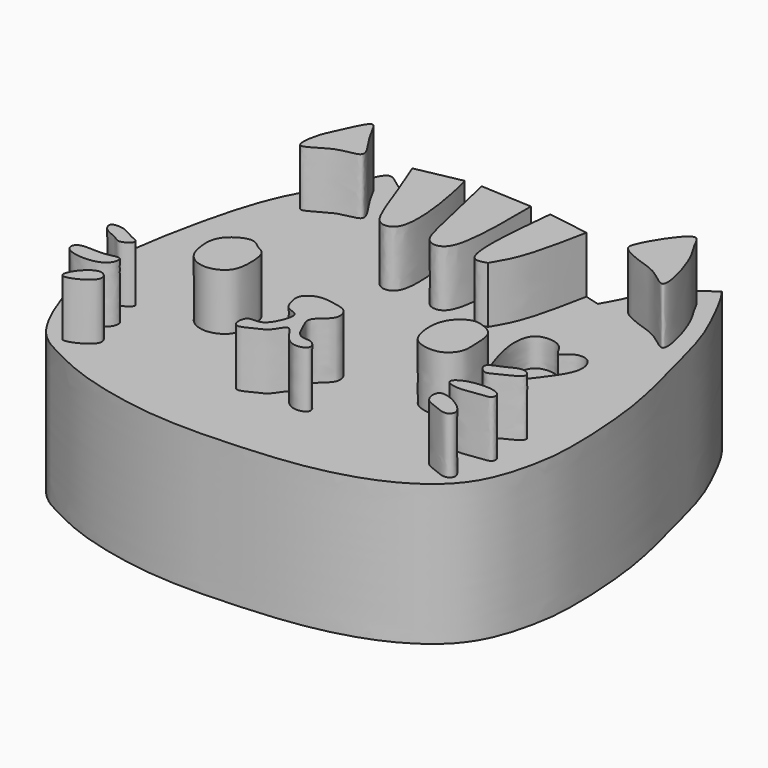
from build123d import *

# Parameters (mm, degrees)
F1_DEPTH = 7
F2_DEPTH = 5
F3_DEPTH = 4


with BuildPart() as f1:
    # F0 (on Top) → F1 (new body)
    with BuildSketch(Plane.XY):
        with BuildLine():
            add(Edge.make_bspline(
                [(8.0185680598, 15.2069385045), (8.0270837211, 15.2093513362), (8.0356028769, 15.211759167), (8.0441257125, 15.2141617317)],
                knots=[0.0685146865, 0.0685146865, 0.0685146865, 0.0685146865, 0.0721487678, 0.0721487678, 0.0721487678, 0.0721487678], degree=3))
            add(Edge.make_bspline(
                [(8.0185680865, 15.206938519), (8.1456651348, 14.8964780665), (8.429736558, 14.2023810689), (8.9521749959, 12.6634816561), (9.3465270126, 11.9853451736), (10.1783854316, 12.1491784225), (9.9146080436, 14.4014965322), (9.7091336489, 15.1905100868), (9.6192044115, 15.5316497966)],
                knots=[0.0003349495, 0.0003349495, 0.0003349495, 0.0003349495, 0.1633550102, 0.3640674906, 0.4933035719, 0.6024792642, 0.8258590143, 1, 1, 1, 1], degree=3))
            add(Edge.make_bspline(
                [(9.6192044115, 15.5316497966), (9.0941781785, 15.4258204416), (8.5691519455, 15.3199910867), (8.0441257125, 15.2141617317)],
                knots=[0, 0, 0, 0, 1.6067580961, 1.6067580961, 1.6067580961, 1.6067580961], degree=3))
        make_face()
    extrude(amount=F1_DEPTH)


with BuildPart() as f1b:
    # F0 (on Top) → F1, piece 2 (new body)
    with BuildSketch(Plane.XY):
        with BuildLine():
            add(Edge.make_bspline(
                [(12.0135450293, 15.4773354012), (11.4058551989, 15.5083874516), (10.7981653684, 15.539439502), (10.1904755379, 15.5704915524)],
                knots=[0, 0, 0, 0, 1.8254480106, 1.8254480106, 1.8254480106, 1.8254480106], degree=3))
            add(Edge.make_bspline(
                [(10.1904755379, 15.5704915524), (10.4004088105, 14.6419910593), (10.739602224, 13.1417619432), (11.0042906658, 11.9921987372), (11.7505266881, 11.9892162517), (12.0305110755, 13.1333382993), (12.0198357957, 14.5850010835), (12.0135450293, 15.4773354012)],
                knots=[0, 0, 0, 0, 0.2764567189, 0.4468822943, 0.5628184795, 0.7319473814, 1, 1, 1, 1], degree=3))
        make_face()
    extrude(amount=F1_DEPTH)


with BuildPart() as f1c:
    # F0 (on Top) → F1, piece 3 (new body)
    with BuildSketch(Plane.XY):
        with BuildLine():
            add(Edge.make_bspline(
                [(13.2046649233, 12.0874056593), (13.3654050394, 12.357390845), (13.7638945915, 13.026708986), (14.0357438807, 14.3921850094), (14.1978986014, 15.2070718791)],
                knots=[0, 0, 0, 0, 0.4031717372, 0.9994998688, 0.9994998688, 0.9994998688, 0.9994998688], degree=3))
            add(Edge.make_bspline(
                [(14.1774315396, 15.212428255), (14.1842459583, 15.2106485915), (14.1910684162, 15.208863057), (14.1978986014, 15.2070718791)],
                knots=[0.9291584242, 0.9291584242, 0.9291584242, 0.9291584242, 0.9319050644, 0.9319050644, 0.9319050644, 0.9319050644], degree=3))
            add(Edge.make_bspline(
                [(12.7762666313, 15.43433708), (13.2433216007, 15.3603674716), (13.7103765702, 15.2863978633), (14.1774315396, 15.212428255)],
                knots=[0.0498826115, 0.0498826115, 0.0498826115, 0.0498826115, 1.4685110431, 1.4685110431, 1.4685110431, 1.4685110431], degree=3))
            add(Edge.make_bspline(
                [(12.7263183354, 15.435376231), (12.743101545, 15.435021538), (12.7597387765, 15.4346813312), (12.7762666313, 15.43433708)],
                knots=[0.6928424518, 0.6928424518, 0.6928424518, 0.6928424518, 0.7021789214, 0.7021789214, 0.7021789214, 0.7021789214], degree=3))
            add(Edge.make_bspline(
                [(13.2046649233, 12.0874056593), (13.0236321243, 12.0296050376), (12.3635492642, 11.8188520699), (12.5733669947, 13.9134452466), (12.7263183368, 15.4353762307)],
                knots=[0, 0, 0, 0, 0.2739631478, 0.9989260465, 0.9989260465, 0.9989260465, 0.9989260465], degree=3))
        make_face()
    extrude(amount=F1_DEPTH)


with BuildPart() as f1d:
    # F0 (on Top) → F1, piece 4 (new body)
    with BuildSketch(Plane.XY):
        with BuildLine():
            add(Edge.make_bspline(
                [(16.6877508163, 16.8714039028), (16.8321946023, 16.898437407), (16.9944896369, 16.4181260911), (17.4293696491, 15.9510221376), (18.0983672064, 13.6543504683), (17.1391822083, 14.6106796235), (16.439423172, 14.7704845192), (15.6637373203, 15.1168524534), (15.5712935246, 15.4785439819), (16.4047532022, 16.8184392346), (16.6877508163, 16.8714039028)],
                knots=[0, 0, 0, 0, 0.0902221164, 0.2157918354, 0.3908607182, 0.5019792459, 0.6276229333, 0.7446620197, 0.8232347378, 1, 1, 1, 1], degree=3))
        make_face()
    extrude(amount=F1_DEPTH)


with BuildPart() as f1e:
    # F0 (on Top) → F1, piece 5 (new body)
    with BuildSketch(Plane.XY):
        with BuildLine():
            add(Edge.make_bspline(
                [(4.7277575359, 14.3535099924), (4.6076096966, 14.4233862951), (4.7107102737, 15.1935851427), (4.9947818182, 15.6697656714), (5.4991583833, 16.9307726505), (5.8008394953, 15.9699680009), (6.7823456312, 14.8409275241), (5.5988270288, 14.9380060571), (4.8710075236, 14.2701978032), (4.7277575359, 14.3535099924)],
                knots=[0, 0, 0, 0, 0.1306062408, 0.2664277851, 0.4148507713, 0.540808476, 0.7063010227, 0.8442806586, 1, 1, 1, 1], degree=3))
        make_face()
    extrude(amount=F1_DEPTH)


with BuildPart() as f1f:
    # F0 (on Top) → F1, piece 6 (new body)
    with BuildSketch(Plane.XY):
        with BuildLine():
            add(Edge.make_bspline(
                [(7.2456514463, 9.0659335256), (7.4083770118, 9.052710822), (7.6016993085, 8.8225579788), (8.0053893171, 8.7062443778), (8.0707148229, 7.911443525), (7.9773394335, 7.2453650576), (7.2446388763, 6.903214013), (6.530804608, 7.1967469596), (6.327948088, 7.8915127618), (6.3290870666, 8.7054024992), (7.0155225819, 9.0846332654), (7.2456514463, 9.0659335256)],
                knots=[0, 0, 0, 0, 0.0912763777, 0.1747098312, 0.2929013621, 0.4049835407, 0.5207198685, 0.6350583557, 0.7493968793, 0.8709156175, 1, 1, 1, 1], degree=3))
        make_face()
    extrude(amount=F1_DEPTH)


with BuildPart() as f1g:
    # F0 (on Top) → F1, piece 7 (new body)
    with BuildSketch(Plane.XY):
        with BuildLine():
            add(Edge.make_bspline(
                [(4.6438276768, 4.6596205793), (4.8054343797, 4.8528171816), (5.1812309038, 5.0961056322), (5.5834937542, 4.5986911988), (4.8101645221, 4.1145346538), (4.3025269831, 4.0680800337), (4.4921866356, 4.478337666), (4.6438276768, 4.6596205793)],
                knots=[0, 0, 0, 0, 0.218419577, 0.3851385609, 0.6342730381, 0.7950495155, 1, 1, 1, 1], degree=3))
        make_face()
    extrude(amount=F1_DEPTH)


with BuildPart() as f1h:
    # F0 (on Top) → F1, piece 8 (new body)
    with BuildSketch(Plane.XY):
        with BuildLine():
            add(Edge.make_bspline(
                [(4.5598978177, 5.8766021393), (4.2475953844, 5.8407548799), (3.6595089247, 5.9554278375), (3.4895647765, 5.5973950159), (3.8307424713, 5.272211424), (5.0326665821, 5.2924961719), (5.1720340421, 6.0788552628), (4.7962512049, 5.9037316788), (4.5598978177, 5.8766021393)],
                knots=[0, 0, 0, 0, 0.2098147093, 0.3203115503, 0.4592540559, 0.6933549643, 0.8412102758, 1, 1, 1, 1], degree=3))
        make_face()
    extrude(amount=F1_DEPTH)


with BuildPart() as f1i:
    # F0 (on Top) → F1, piece 9 (new body)
    with BuildSketch(Plane.XY):
        with BuildLine():
            add(Edge.make_bspline(
                [(4.4340034947, 6.715899799), (4.3158767479, 6.7008735493), (4.1561829342, 6.8837695277), (3.7025692471, 6.9755289332), (3.4705501332, 7.4261297094), (4.0811667078, 7.438035267), (4.4576309462, 7.1257142214), (4.9311695823, 7.0022408333), (4.5693639563, 6.7331182542), (4.4340034947, 6.715899799)],
                knots=[0, 0, 0, 0, 0.1280964469, 0.2833023612, 0.4113988755, 0.5585489658, 0.7285684887, 0.8532153415, 1, 1, 1, 1], degree=3))
        make_face()
    extrude(amount=F1_DEPTH)


with BuildPart() as f1j:
    # F0 (on Top) → F1, piece 10 (new body)
    with BuildSketch(Plane.XY):
        with BuildLine():
            add(Edge.make_bspline(
                [(10.0572984666, 5.2890935913), (10.1505153465, 5.3898006634), (10.540712661, 5.2695208115), (10.8776061936, 5.757335397), (11.0724806072, 6.422093783), (10.5370383516, 6.4392997433), (10.3795856743, 6.8836177145), (10.3130118876, 7.2940919974), (10.8151864248, 7.6448640844), (11.43424697, 7.5117951128), (11.9109898377, 7.4249950808), (12.0906507585, 6.8113978793), (11.3282225461, 6.4248311873), (11.5720487726, 5.9219160354), (11.8364034051, 5.2999010199), (12.3351525628, 5.4299562427), (12.6598904369, 4.9594242997), (11.7708498254, 4.7310123961), (11.3321017578, 5.892738082), (11.0391057297, 5.1454254919), (10.6000895474, 4.9931572793), (9.9574535039, 4.620768347), (9.9604857624, 5.1845017621), (10.0572984666, 5.2890935913)],
                knots=[0, 0, 0, 0, 0.0438128644, 0.0941354218, 0.1438924757, 0.184923826, 0.2289457947, 0.2701047459, 0.3180382917, 0.3712332243, 0.4162586482, 0.4621330701, 0.5174877791, 0.563362201, 0.6154647322, 0.6592775919, 0.6982333725, 0.7498275612, 0.8119736199, 0.8567050491, 0.9062449676, 0.9544970622, 1, 1, 1, 1], degree=3))
        make_face()
    extrude(amount=F1_DEPTH)


with BuildPart() as f1k:
    # F0 (on Top) → F1, piece 11 (new body)
    with BuildSketch(Plane.XY):
        with BuildLine():
            add(Edge.make_bspline(
                [(15.009155497, 9.1078989208), (15.161222327, 9.1498211866), (15.4287553903, 9.0806394748), (15.9623584456, 8.8361091045), (15.9677701475, 8.0035551039), (16.0035277893, 7.5058187296), (15.555138259, 6.9736681237), (14.7080355433, 7.0744532697), (14.3495939528, 7.4815564282), (14.2489212479, 8.6211839235), (14.7994899502, 9.0500976581), (15.009155497, 9.1078989208)],
                knots=[0, 0, 0, 0, 0.0899248624, 0.1890299314, 0.3102041397, 0.4086372555, 0.5153107573, 0.6357506188, 0.7341837157, 0.8760140825, 1, 1, 1, 1], degree=3))
        make_face()
    extrude(amount=F1_DEPTH)


with BuildPart() as f1l:
    # F0 (on Top) → F1, piece 12 (new body)
    with BuildSketch(Plane.XY):
        with BuildLine():
            add(Edge.make_bspline(
                [(17.4011550844, 7.4712680653), (17.6145494812, 7.5657214121), (17.9400655622, 7.8004526388), (18.4571554394, 7.4206967811), (17.5757331331, 7.0626416796), (17.2105825645, 6.8049015122), (16.8248449528, 7.2928178359), (17.2121514202, 7.3876106267), (17.4011550844, 7.4712680653)],
                knots=[0, 0, 0, 0, 0.1883073467, 0.3247975515, 0.5321647956, 0.6899715846, 0.8332159652, 1, 1, 1, 1], degree=3))
        make_face()
    extrude(amount=F1_DEPTH)


with BuildPart() as f1m:
    # F0 (on Top) → F1, piece 13 (new body)
    with BuildSketch(Plane.XY):
        with BuildLine():
            add(Edge.make_bspline(
                [(17.191329971, 6.1703561805), (17.5527639037, 6.2837715976), (18.3652928938, 6.2889547547), (18.3757223949, 5.8031639315), (17.9514551508, 5.816343017), (17.2397131522, 5.6331752727), (16.6479336249, 5.857486575), (16.9520712262, 6.0952784751), (17.191329971, 6.1703561805)],
                knots=[0, 0, 0, 0, 0.2392014641, 0.3548572466, 0.4895189437, 0.6944887697, 0.8416555922, 1, 1, 1, 1], degree=3))
        make_face()
    extrude(amount=F1_DEPTH)


with BuildPart() as f1n:
    # F0 (on Top) → F1, piece 14 (new body)
    with BuildSketch(Plane.XY):
        with BuildLine():
            add(Edge.make_bspline(
                [(17.065435648, 5.1631988026), (17.2989699253, 5.2621116231), (18.291814643, 4.6954475643), (17.9533495907, 4.2059762545), (17.4369807223, 4.477994292), (16.957099985, 4.5873098519), (16.916875795, 5.100276673), (17.065435648, 5.1631988026)],
                knots=[0, 0, 0, 0, 0.2864347859, 0.4377364229, 0.6305598963, 0.8177881629, 1, 1, 1, 1], degree=3))
        make_face()
    extrude(amount=F1_DEPTH)


with BuildPart() as f2:
    # F0 (on Top) → F2 (new body)
    with BuildSketch(Plane.XY):
        with BuildLine():
            add(Edge.make_bspline(
                [(16.939541325, 17.7946314216), (17.016976991, 17.6871716473), (17.2193952165, 17.4062698623), (17.7735814574, 16.3181577327), (18.290369685, 15.1502130308), (18.7476746029, 13.2333267192), (19.3787443898, 10.9828216452), (19.5293710604, 8.2184907727), (19.4716355243, 6.8841798676), (18.9965690518, 4.8635106236), (17.9204868343, 3.664726988), (16.3714568951, 2.8176288181), (14.4271795708, 2.3371133704), (12.4536898204, 2.1643058257), (9.2027326521, 2.0103574049), (6.1853034613, 2.7602284537), (4.9668175981, 3.3928550612), (3.7955184115, 3.9561199748), (3.0028372043, 5.6806658692), (2.5667198761, 7.1109186363), (2.4374621903, 8.9893912703), (3.082449904, 12.4159562839), (3.8001979014, 14.7589881102), (4.907734843, 16.3939109356), (5.2936749453, 17.7234392583), (5.8792179196, 17.1608312225), (6.2565467652, 16.9765239606), (6.9639766552, 16.3303520005), (7.3331500827, 15.5197774193), (7.5394054875, 15.0669133291)],
                knots=[0, 0, 0, 0, 0.0194424815, 0.0508229969, 0.0839410104, 0.1238638038, 0.1690648074, 0.2164296092, 0.2504203089, 0.2908792269, 0.3271492196, 0.3650861058, 0.4054292668, 0.4460713378, 0.4986147925, 0.5493845225, 0.5827106895, 0.6144601198, 0.6534123997, 0.6886050953, 0.7278384557, 0.7817561839, 0.8275790099, 0.8688607661, 0.8979340406, 0.9188597515, 0.9383022164, 0.9655297473, 1, 1, 1, 1], degree=3))
            add(Edge.make_bspline(
                [(14.7154014558, 15.0669133291), (14.8472981775, 15.2973988392), (15.1256206641, 15.7837589206), (15.4635688798, 16.7799487496), (16.4019738554, 17.4250714083), (16.939541325, 17.7946314216)],
                knots=[0, 0, 0, 0, 0.2778553428, 0.586317756, 1, 1, 1, 1], degree=3))
            add(Edge.make_bspline(
                [(14.1978986014, 15.2070718791), (14.3672331355, 15.1626648433), (14.5413172956, 15.1147890862), (14.7154014558, 15.0669133291)],
                knots=[0.9319050644, 0.9319050644, 0.9319050644, 0.9319050644, 1, 1, 1, 1], degree=3))
            add(Edge.make_bspline(
                [(13.2046649233, 12.0874056593), (13.3654050394, 12.357390845), (13.7638945915, 13.026708986), (14.0357438807, 14.3921850094), (14.1978986014, 15.2070718791)],
                knots=[0, 0, 0, 0, 0.4031717372, 0.9994998688, 0.9994998688, 0.9994998688, 0.9994998688], degree=3))
            add(Edge.make_bspline(
                [(13.2046649233, 12.0874056593), (13.0236321243, 12.0296050376), (12.3635492642, 11.8188520699), (12.5733669947, 13.9134452466), (12.7263183368, 15.4353762307)],
                knots=[0, 0, 0, 0, 0.2739631478, 0.9989260465, 0.9989260465, 0.9989260465, 0.9989260465], degree=3))
            add(Edge.make_bspline(
                [(12.4492971227, 15.4445972294), (12.5489083121, 15.4394302142), (12.6395635911, 15.4372096882), (12.7263183354, 15.435376231)],
                knots=[0.6445809419, 0.6445809419, 0.6445809419, 0.6445809419, 0.6928424518, 0.6928424518, 0.6928424518, 0.6928424518], degree=3))
            add(Edge.make_bspline(
                [(12.0135450293, 15.4773354012), (12.1709085723, 15.4633566909), (12.3178951734, 15.4514132896), (12.4492971227, 15.4445972294)],
                knots=[0.5809168443, 0.5809168443, 0.5809168443, 0.5809168443, 0.6445809419, 0.6445809419, 0.6445809419, 0.6445809419], degree=3))
            add(Edge.make_bspline(
                [(10.1904755379, 15.5704915524), (10.4004088105, 14.6419910593), (10.739602224, 13.1417619432), (11.0042906658, 11.9921987372), (11.7505266881, 11.9892162517), (12.0305110755, 13.1333382993), (12.0198357957, 14.5850010835), (12.0135450293, 15.4773354012)],
                knots=[0, 0, 0, 0, 0.2764567189, 0.4468822943, 0.5628184795, 0.7319473814, 1, 1, 1, 1], degree=3))
            add(Edge.make_bspline(
                [(9.6192044115, 15.5316497966), (9.8061807026, 15.5509108408), (9.9967510311, 15.5639660884), (10.1904755379, 15.5704915524)],
                knots=[0.2856280483, 0.2856280483, 0.2856280483, 0.2856280483, 0.3573225975, 0.3573225975, 0.3573225975, 0.3573225975], degree=3))
            add(Edge.make_bspline(
                [(8.0185680865, 15.206938519), (8.1456651348, 14.8964780665), (8.429736558, 14.2023810689), (8.9521749959, 12.6634816561), (9.3465270126, 11.9853451736), (10.1783854316, 12.1491784225), (9.9146080436, 14.4014965322), (9.7091336489, 15.1905100868), (9.6192044115, 15.5316497966)],
                knots=[0.0003349495, 0.0003349495, 0.0003349495, 0.0003349495, 0.1633550102, 0.3640674906, 0.4933035719, 0.6024792642, 0.8258590143, 1, 1, 1, 1], degree=3))
            add(Edge.make_bspline(
                [(7.5394054875, 15.0669133291), (7.6987123087, 15.1141809099), (7.8580191299, 15.1614484907), (8.0185680598, 15.2069385045)],
                knots=[0, 0, 0, 0, 0.0685146865, 0.0685146865, 0.0685146865, 0.0685146865], degree=3))
        make_face()
        with BuildLine():
            add(Edge.make_bspline(
                [(4.5598978177, 5.8766021393), (4.2475953844, 5.8407548799), (3.6595089247, 5.9554278375), (3.4895647765, 5.5973950159), (3.8307424713, 5.272211424), (5.0326665821, 5.2924961719), (5.1720340421, 6.0788552628), (4.7962512049, 5.9037316788), (4.5598978177, 5.8766021393)],
                knots=[0, 0, 0, 0, 0.2098147093, 0.3203115503, 0.4592540559, 0.6933549643, 0.8412102758, 1, 1, 1, 1], degree=3))
        make_face(mode=Mode.SUBTRACT)
        with BuildLine():
            add(Edge.make_bspline(
                [(4.6438276768, 4.6596205793), (4.8054343797, 4.8528171816), (5.1812309038, 5.0961056322), (5.5834937542, 4.5986911988), (4.8101645221, 4.1145346538), (4.3025269831, 4.0680800337), (4.4921866356, 4.478337666), (4.6438276768, 4.6596205793)],
                knots=[0, 0, 0, 0, 0.218419577, 0.3851385609, 0.6342730381, 0.7950495155, 1, 1, 1, 1], degree=3))
        make_face(mode=Mode.SUBTRACT)
        with BuildLine():
            add(Edge.make_bspline(
                [(4.4340034947, 6.715899799), (4.3158767479, 6.7008735493), (4.1561829342, 6.8837695277), (3.7025692471, 6.9755289332), (3.4705501332, 7.4261297094), (4.0811667078, 7.438035267), (4.4576309462, 7.1257142214), (4.9311695823, 7.0022408333), (4.5693639563, 6.7331182542), (4.4340034947, 6.715899799)],
                knots=[0, 0, 0, 0, 0.1280964469, 0.2833023612, 0.4113988755, 0.5585489658, 0.7285684887, 0.8532153415, 1, 1, 1, 1], degree=3))
        make_face(mode=Mode.SUBTRACT)
        with BuildLine():
            add(Edge.make_bspline(
                [(7.2456514463, 9.0659335256), (7.4083770118, 9.052710822), (7.6016993085, 8.8225579788), (8.0053893171, 8.7062443778), (8.0707148229, 7.911443525), (7.9773394335, 7.2453650576), (7.2446388763, 6.903214013), (6.530804608, 7.1967469596), (6.327948088, 7.8915127618), (6.3290870666, 8.7054024992), (7.0155225819, 9.0846332654), (7.2456514463, 9.0659335256)],
                knots=[0, 0, 0, 0, 0.0912763777, 0.1747098312, 0.2929013621, 0.4049835407, 0.5207198685, 0.6350583557, 0.7493968793, 0.8709156175, 1, 1, 1, 1], degree=3))
        make_face(mode=Mode.SUBTRACT)
        with BuildLine():
            add(Edge.make_bspline(
                [(17.065435648, 5.1631988026), (17.2989699253, 5.2621116231), (18.291814643, 4.6954475643), (17.9533495907, 4.2059762545), (17.4369807223, 4.477994292), (16.957099985, 4.5873098519), (16.916875795, 5.100276673), (17.065435648, 5.1631988026)],
                knots=[0, 0, 0, 0, 0.2864347859, 0.4377364229, 0.6305598963, 0.8177881629, 1, 1, 1, 1], degree=3))
        make_face(mode=Mode.SUBTRACT)
        with BuildLine():
            add(Edge.make_bspline(
                [(10.0572984666, 5.2890935913), (10.1505153465, 5.3898006634), (10.540712661, 5.2695208115), (10.8776061936, 5.757335397), (11.0724806072, 6.422093783), (10.5370383516, 6.4392997433), (10.3795856743, 6.8836177145), (10.3130118876, 7.2940919974), (10.8151864248, 7.6448640844), (11.43424697, 7.5117951128), (11.9109898377, 7.4249950808), (12.0906507585, 6.8113978793), (11.3282225461, 6.4248311873), (11.5720487726, 5.9219160354), (11.8364034051, 5.2999010199), (12.3351525628, 5.4299562427), (12.6598904369, 4.9594242997), (11.7708498254, 4.7310123961), (11.3321017578, 5.892738082), (11.0391057297, 5.1454254919), (10.6000895474, 4.9931572793), (9.9574535039, 4.620768347), (9.9604857624, 5.1845017621), (10.0572984666, 5.2890935913)],
                knots=[0, 0, 0, 0, 0.0438128644, 0.0941354218, 0.1438924757, 0.184923826, 0.2289457947, 0.2701047459, 0.3180382917, 0.3712332243, 0.4162586482, 0.4621330701, 0.5174877791, 0.563362201, 0.6154647322, 0.6592775919, 0.6982333725, 0.7498275612, 0.8119736199, 0.8567050491, 0.9062449676, 0.9544970622, 1, 1, 1, 1], degree=3))
        make_face(mode=Mode.SUBTRACT)
        with BuildLine():
            add(Edge.make_bspline(
                [(15.009155497, 9.1078989208), (15.161222327, 9.1498211866), (15.4287553903, 9.0806394748), (15.9623584456, 8.8361091045), (15.9677701475, 8.0035551039), (16.0035277893, 7.5058187296), (15.555138259, 6.9736681237), (14.7080355433, 7.0744532697), (14.3495939528, 7.4815564282), (14.2489212479, 8.6211839235), (14.7994899502, 9.0500976581), (15.009155497, 9.1078989208)],
                knots=[0, 0, 0, 0, 0.0899248624, 0.1890299314, 0.3102041397, 0.4086372555, 0.5153107573, 0.6357506188, 0.7341837157, 0.8760140825, 1, 1, 1, 1], degree=3))
        make_face(mode=Mode.SUBTRACT)
        with BuildLine():
            add(Edge.make_bspline(
                [(17.191329971, 6.1703561805), (17.5527639037, 6.2837715976), (18.3652928938, 6.2889547547), (18.3757223949, 5.8031639315), (17.9514551508, 5.816343017), (17.2397131522, 5.6331752727), (16.6479336249, 5.857486575), (16.9520712262, 6.0952784751), (17.191329971, 6.1703561805)],
                knots=[0, 0, 0, 0, 0.2392014641, 0.3548572466, 0.4895189437, 0.6944887697, 0.8416555922, 1, 1, 1, 1], degree=3))
        make_face(mode=Mode.SUBTRACT)
        with BuildLine():
            add(Edge.make_bspline(
                [(17.4011550844, 7.4712680653), (17.6145494812, 7.5657214121), (17.9400655622, 7.8004526388), (18.4571554394, 7.4206967811), (17.5757331331, 7.0626416796), (17.2105825645, 6.8049015122), (16.8248449528, 7.2928178359), (17.2121514202, 7.3876106267), (17.4011550844, 7.4712680653)],
                knots=[0, 0, 0, 0, 0.1883073467, 0.3247975515, 0.5321647956, 0.6899715846, 0.8332159652, 1, 1, 1, 1], degree=3))
        make_face(mode=Mode.SUBTRACT)
        with BuildLine():
            add(Edge.make_bspline(
                [(4.7277575359, 14.3535099924), (4.6076096966, 14.4233862951), (4.7107102737, 15.1935851427), (4.9947818182, 15.6697656714), (5.4991583833, 16.9307726505), (5.8008394953, 15.9699680009), (6.7823456312, 14.8409275241), (5.5988270288, 14.9380060571), (4.8710075236, 14.2701978032), (4.7277575359, 14.3535099924)],
                knots=[0, 0, 0, 0, 0.1306062408, 0.2664277851, 0.4148507713, 0.540808476, 0.7063010227, 0.8442806586, 1, 1, 1, 1], degree=3))
        make_face(mode=Mode.SUBTRACT)
        with BuildLine():
            add(Edge.make_bspline(
                [(15.1805467904, 9.7417719662), (15.4973608005, 9.67250073), (16.282183247, 10.6913890664), (16.954118833, 11.6531588853), (16.6161288063, 12.3994162667), (15.9943333154, 12.319326582), (15.7468221224, 11.8717918243), (15.5585034173, 12.3778199038), (15.1769038033, 12.6144223675), (14.5018476132, 12.5595741833), (14.3096450858, 11.9044942809), (14.4320668652, 11.0612468296), (14.8580456151, 9.8122866984), (15.1805467904, 9.7417719662)],
                knots=[0, 0, 0, 0, 0.1258338612, 0.2451553095, 0.3282421948, 0.4057999198, 0.4680944067, 0.5326159093, 0.6054021518, 0.6864885702, 0.7661813864, 0.8719072805, 1, 1, 1, 1], degree=3))
        make_face(mode=Mode.SUBTRACT)
        with BuildLine():
            add(Edge.make_bspline(
                [(16.6877508163, 16.8714039028), (16.8321946023, 16.898437407), (16.9944896369, 16.4181260911), (17.4293696491, 15.9510221376), (18.0983672064, 13.6543504683), (17.1391822083, 14.6106796235), (16.439423172, 14.7704845192), (15.6637373203, 15.1168524534), (15.5712935246, 15.4785439819), (16.4047532022, 16.8184392346), (16.6877508163, 16.8714039028)],
                knots=[0, 0, 0, 0, 0.0902221164, 0.2157918354, 0.3908607182, 0.5019792459, 0.6276229333, 0.7446620197, 0.8232347378, 1, 1, 1, 1], degree=3))
        make_face(mode=Mode.SUBTRACT)
    extrude(amount=F2_DEPTH)

    # F0 (on Top) → F3 (join)
    with BuildSketch(Plane.XY):
        with BuildLine():
            add(Edge.make_bspline(
                [(15.1805467904, 9.7417719662), (15.4973608005, 9.67250073), (16.282183247, 10.6913890664), (16.954118833, 11.6531588853), (16.6161288063, 12.3994162667), (15.9943333154, 12.319326582), (15.7468221224, 11.8717918243), (15.5585034173, 12.3778199038), (15.1769038033, 12.6144223675), (14.5018476132, 12.5595741833), (14.3096450858, 11.9044942809), (14.4320668652, 11.0612468296), (14.8580456151, 9.8122866984), (15.1805467904, 9.7417719662)],
                knots=[0, 0, 0, 0, 0.1258338612, 0.2451553095, 0.3282421948, 0.4057999198, 0.4680944067, 0.5326159093, 0.6054021518, 0.6864885702, 0.7661813864, 0.8719072805, 1, 1, 1, 1], degree=3))
        make_face()
    extrude(amount=F3_DEPTH)


solid = Compound([f1.part, f1b.part, f1c.part, f1d.part, f1e.part, f1f.part, f1g.part, f1h.part, f1i.part, f1j.part, f1k.part, f1l.part, f1m.part, f1n.part, f2.part])
